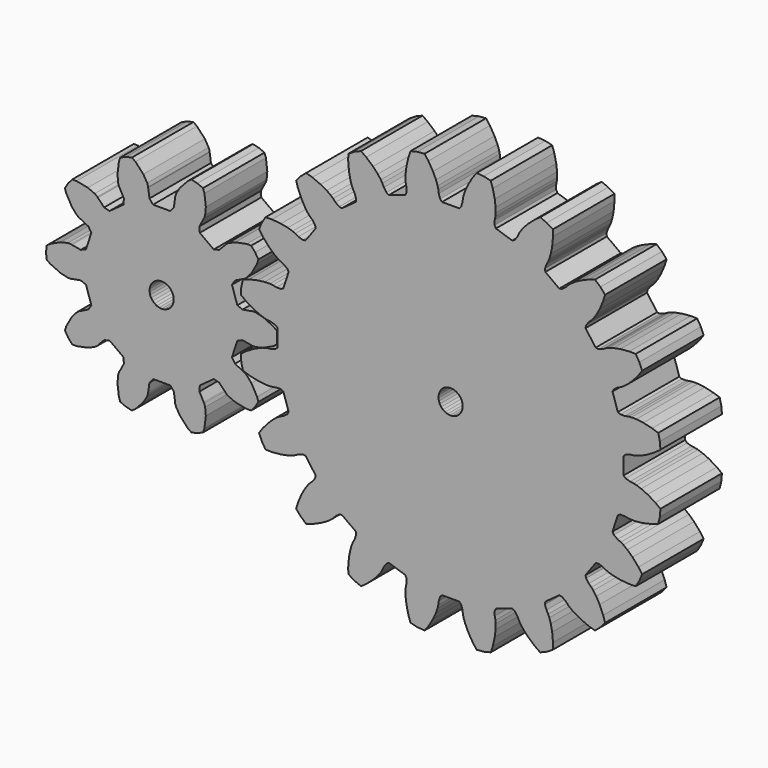
from build123d import *

# Parameters (mm, degrees)
F1_DEPTH = 12.7
F3_SCALE = 0.5319037547


with BuildPart() as f1:
    # F0 (on Front) → F1 (new body)
    with BuildSketch(Plane.XZ):
        Polygon((-17.590216, -12.006627), (-16.868057, -11.995513), (-16.210721, -11.225871), (-15.681876, -10.362875), (-15.894465, -9.672627), (-16.822012, -8.007404), (-17.639517, -7.070884), (-18.069689, -6.748116), (-18.203515, -6.717511), (-19.545831, -6.05378), (-20.03919, -5.270355), (-19.161075, -2.567796), (-18.301454, -2.223981), (-16.825366, -2.476005), (-16.699109, -2.529906), (-16.161375, -2.52163), (-14.949527, -2.244487), (-13.220332, -1.442492), (-12.642626, -1.009026), (-12.563214, 0), (-12.642626, 1.009026), (-13.220332, 1.442492), (-14.949527, 2.244487), (-16.161375, 2.52163), (-16.699109, 2.529906), (-16.825366, 2.476005), (-18.301454, 2.223981), (-19.161075, 2.567796), (-20.03919, 5.270355), (-19.545831, 6.05378), (-18.203515, 6.717511), (-18.069689, 6.748116), (-17.639517, 7.070884), (-16.822012, 8.007404), (-15.894465, 9.672627), (-15.681876, 10.362875), (-16.210721, 11.225871), (-16.868057, 11.995513), (-17.590216, 12.006627), (-19.460565, 11.63906), (-20.603871, 11.150967), (-21.043772, 10.84159), (-21.114234, 10.723772), (-22.160277, 9.652257), (-23.057815, 9.425137), (-25.356749, 11.09541), (-25.4181, 12.019203), (-24.722273, 13.345166), (-24.631996, 13.448587), (-24.473697, 13.96256), (-24.362795, 15.200738), (-24.591187, 17.09313), (-24.824916, 17.77651), (-25.760017, 18.163841), (-26.744197, 18.400122), (-27.334969, 17.984639), (-28.632062, 16.587907), (-29.270123, 15.521013), (-29.444163, 15.012155), (-29.431916, 14.875422), (-29.648362, 13.393699), (-30.240987, 12.682395), (-33.082627, 12.682395), (-33.675252, 13.393699), (-33.891698, 14.875422), (-33.879451, 15.012155), (-34.053491, 15.521013), (-34.691552, 16.587907), (-35.988645, 17.984639), (-36.579417, 18.400122), (-37.563597, 18.163841), (-38.498698, 17.77651), (-38.732427, 17.09313), (-38.960819, 15.200738), (-38.849917, 13.96256), (-38.691618, 13.448587), (-38.601341, 13.345166), (-37.905514, 12.019203), (-37.966865, 11.09541), (-40.265799, 9.425137), (-41.163337, 9.652257), (-42.20938, 10.723772), (-42.279842, 10.84159), (-42.719743, 11.150967), (-43.863049, 11.63906), (-45.733398, 12.006627), (-46.455557, 11.995513), (-47.112893, 11.225871), (-47.641738, 10.362875), (-47.429149, 9.672627), (-46.501602, 8.007404), (-45.684097, 7.070884), (-45.253925, 6.748116), (-45.120099, 6.717511), (-43.777783, 6.05378), (-43.284424, 5.270355), (-44.162539, 2.567796), (-45.02216, 2.223981), (-46.498248, 2.476005), (-46.624505, 2.529906), (-47.162239, 2.52163), (-48.374087, 2.244487), (-50.103282, 1.442492), (-50.680988, 1.009026), (-50.7604, 0), (-50.680988, -1.009026), (-50.103282, -1.442492), (-48.374087, -2.244487), (-47.162239, -2.52163), (-46.624505, -2.529906), (-46.498248, -2.476005), (-45.02216, -2.223981), (-44.162539, -2.567796), (-43.284424, -5.270355), (-43.777783, -6.05378), (-45.120099, -6.717511), (-45.253925, -6.748116), (-45.684097, -7.070884), (-46.501602, -8.007404), (-47.429149, -9.672627), (-47.641738, -10.362875), (-47.112893, -11.225871), (-46.455557, -11.995513), (-45.733398, -12.006627), (-43.863049, -11.63906), (-42.719743, -11.150967), (-42.279842, -10.84159), (-42.20938, -10.723772), (-41.163337, -9.652257), (-40.265799, -9.425137), (-37.966865, -11.09541), (-37.905514, -12.019203), (-38.601341, -13.345166), (-38.691618, -13.448587), (-38.849917, -13.96256), (-38.960819, -15.200738), (-38.732427, -17.09313), (-38.498698, -17.77651), (-37.563597, -18.163841), (-36.579417, -18.400122), (-35.988645, -17.984639), (-34.691552, -16.587907), (-34.053491, -15.521013), (-33.879451, -15.012155), (-33.891698, -14.875422), (-33.675252, -13.393699), (-33.082627, -12.682395), (-30.240987, -12.682395), (-29.648362, -13.393699), (-29.431916, -14.875422), (-29.444163, -15.012155), (-29.270123, -15.521013), (-28.632062, -16.587907), (-27.334969, -17.984639), (-26.744197, -18.400122), (-25.760017, -18.163841), (-24.824916, -17.77651), (-24.591187, -17.09313), (-24.362795, -15.200738), (-24.473697, -13.96256), (-24.631996, -13.448587), (-24.722273, -13.345166), (-25.4181, -12.019203), (-25.356749, -11.09541), (-23.057815, -9.425137), (-22.160277, -9.652257), (-21.114234, -10.723772), (-21.043772, -10.84159), (-20.603871, -11.150967), (-19.460565, -11.63906), align=None)
        Polygon((-30.848334, -1.827091), (-31.245984, -1.956295), (-31.661807, -2), (-32.07763, -1.956295), (-32.47528, -1.827091), (-32.837378, -1.618034), (-33.148097, -1.338261), (-33.393858, -1), (-33.56392, -0.618034), (-33.650851, -0.209057), (-33.650851, 0.209057), (-33.56392, 0.618034), (-33.393858, 1), (-33.148097, 1.338261), (-32.837378, 1.618034), (-32.47528, 1.827091), (-32.07763, 1.956295), (-31.661807, 2), (-31.245984, 1.956295), (-30.848334, 1.827091), (-30.486236, 1.618034), (-30.175517, 1.338261), (-29.929756, 1), (-29.759694, 0.618034), (-29.672763, 0.209057), (-29.672763, -0.209057), (-29.759694, -0.618034), (-29.929756, -1), (-30.175517, -1.338261), (-30.486236, -1.618034), align=None, mode=Mode.SUBTRACT)
    extrude(amount=F1_DEPTH)


with BuildPart() as f1b:
    # F0 (on Front) → F1, piece 2 (new body)
    with BuildSketch(Plane.XZ):
        Polygon((-17.22538, 6.967525), (-18.222457, 6.626504), (-18.49833, 5.47741), (-18.591049, 4.299307), (-17.748153, 3.666863), (-16.469137, 2.901942), (-15.417071, 2.413997), (-14.632558, 2.145678), (-14.146561, 2.034533), (-13.569764, 1.96492), (-12.853496, 1.738816), (-12.513214, 1.42082), (-12.513214, -1.42082), (-12.853496, -1.738816), (-13.569764, -1.96492), (-14.146561, -2.034533), (-14.632558, -2.145678), (-15.417071, -2.413997), (-16.469137, -2.901942), (-17.748153, -3.666863), (-18.591049, -4.299307), (-18.49833, -5.47741), (-18.222457, -6.626504), (-17.22538, -6.967525), (-15.772589, -7.29977), (-14.621231, -7.438727), (-13.792201, -7.451486), (-13.295644, -7.40701), (-12.725566, -7.294976), (-11.974485, -7.288675), (-11.552591, -7.485954), (-10.674476, -10.188514), (-10.899837, -10.596099), (-11.511179, -11.032476), (-12.038234, -11.276922), (-12.466099, -11.532809), (-13.129299, -12.030423), (-13.979091, -12.819592), (-14.959133, -13.942313), (-15.565339, -14.804272), (-15.113104, -15.896063), (-14.495644, -16.903667), (-13.441986, -16.919883), (-11.957631, -16.786931), (-10.819684, -16.563297), (-10.027287, -16.319247), (-9.568777, -16.123504), (-9.061221, -15.840789), (-8.348847, -15.602699), (-7.88664, -15.659951), (-6.216366, -17.958885), (-6.304747, -18.416162), (-6.751319, -19.020096), (-7.17704, -19.415447), (-7.504891, -19.791027), (-7.981861, -20.469227), (-8.546193, -21.482372), (-9.131329, -22.852993), (-9.441505, -23.860092), (-8.674023, -24.758699), (-7.775416, -25.526181), (-6.768317, -25.216005), (-5.397696, -24.630869), (-4.384551, -24.066536), (-3.706351, -23.589567), (-3.330771, -23.261716), (-2.93542, -22.835995), (-2.331486, -22.389423), (-1.874209, -22.301042), (0.424725, -23.971316), (0.481977, -24.433523), (0.243887, -25.145897), (-0.038828, -25.653453), (-0.234571, -26.111962), (-0.478621, -26.90436), (-0.702255, -28.042307), (-0.835207, -29.526662), (-0.818991, -30.58032), (0.188613, -31.19778), (1.280404, -31.650015), (2.142363, -31.043809), (3.265084, -30.063767), (4.054253, -29.213975), (4.551867, -28.550775), (4.807754, -28.12291), (5.0522, -27.595855), (5.488577, -26.984513), (5.896162, -26.759152), (8.598722, -27.637267), (8.796001, -28.05916), (8.7897, -28.810242), (8.677666, -29.38032), (8.63319, -29.876877), (8.645948, -30.705907), (8.784905, -31.857265), (9.117151, -33.310056), (9.458172, -34.307133), (10.607266, -34.583006), (11.785369, -34.675725), (12.417813, -33.832829), (13.182734, -32.553813), (13.670679, -31.501747), (13.938998, -30.717234), (14.050143, -30.231237), (14.119756, -29.65444), (14.34586, -28.938172), (14.663856, -28.59789), (17.505495, -28.59789), (17.823492, -28.938172), (18.049596, -29.65444), (18.119209, -30.231237), (18.230354, -30.717234), (18.498673, -31.501747), (18.986618, -32.553813), (19.751539, -33.832829), (20.383983, -34.675725), (21.562086, -34.583006), (22.71118, -34.307133), (23.052201, -33.310056), (23.384446, -31.857265), (23.523403, -30.705907), (23.536162, -29.876877), (23.491686, -29.38032), (23.379652, -28.810242), (23.373351, -28.05916), (23.57063, -27.637267), (26.27319, -26.759152), (26.680775, -26.984513), (27.117151, -27.595855), (27.361598, -28.12291), (27.617484, -28.550775), (28.115099, -29.213975), (28.904268, -30.063767), (30.026989, -31.043809), (30.888948, -31.650015), (31.980739, -31.19778), (32.988343, -30.58032), (33.004559, -29.526662), (32.871607, -28.042307), (32.647973, -26.90436), (32.403923, -26.111962), (32.208179, -25.653453), (31.925465, -25.145897), (31.687375, -24.433523), (31.744627, -23.971316), (34.043561, -22.301042), (34.500838, -22.389423), (35.104772, -22.835995), (35.500123, -23.261716), (35.875703, -23.589567), (36.553903, -24.066536), (37.567048, -24.630869), (38.937669, -25.216005), (39.944768, -25.526181), (40.843375, -24.758699), (41.610857, -23.860092), (41.300681, -22.852993), (40.715545, -21.482372), (40.151212, -20.469227), (39.674243, -19.791027), (39.346392, -19.415447), (38.920671, -19.020096), (38.474099, -18.416162), (38.385718, -17.958885), (40.055991, -15.659951), (40.518199, -15.602699), (41.230573, -15.840789), (41.738129, -16.123504), (42.196638, -16.319247), (42.989036, -16.563297), (44.126983, -16.786931), (45.611338, -16.919883), (46.664996, -16.903667), (47.282456, -15.896063), (47.734691, -14.804272), (47.128485, -13.942313), (46.148442, -12.819592), (45.298651, -12.030423), (44.635451, -11.532809), (44.207586, -11.276922), (43.680531, -11.032476), (43.069189, -10.596099), (42.843828, -10.188514), (43.721943, -7.485954), (44.143836, -7.288675), (44.894918, -7.294976), (45.464996, -7.40701), (45.961553, -7.451486), (46.790583, -7.438727), (47.941941, -7.29977), (49.394731, -6.967525), (50.391809, -6.626504), (50.667682, -5.47741), (50.760401, -4.299307), (49.917505, -3.666863), (48.638489, -2.901942), (47.586422, -2.413997), (46.80191, -2.145678), (46.315913, -2.034533), (45.739116, -1.96492), (45.022848, -1.738816), (44.682566, -1.42082), (44.682566, 1.42082), (45.022848, 1.738816), (45.739116, 1.96492), (46.315913, 2.034533), (46.80191, 2.145678), (47.586422, 2.413997), (48.638489, 2.901942), (49.917505, 3.666863), (50.760401, 4.299307), (50.667682, 5.47741), (50.391809, 6.626504), (49.394731, 6.967525), (47.941941, 7.29977), (46.790583, 7.438727), (45.961553, 7.451486), (45.464996, 7.40701), (44.894918, 7.294976), (44.143836, 7.288675), (43.721943, 7.485954), (42.843828, 10.188514), (43.069189, 10.596099), (43.680531, 11.032476), (44.207586, 11.276922), (44.635451, 11.532809), (45.298651, 12.030423), (46.148442, 12.819592), (47.128485, 13.942313), (47.734691, 14.804272), (47.282456, 15.896063), (46.664996, 16.903667), (45.611338, 16.919883), (44.126983, 16.786931), (42.989036, 16.563297), (42.196638, 16.319247), (41.738129, 16.123504), (41.230573, 15.840789), (40.518199, 15.602699), (40.055991, 15.659951), (38.385718, 17.958885), (38.474099, 18.416162), (38.920671, 19.020096), (39.346392, 19.415447), (39.674243, 19.791027), (40.151212, 20.469227), (40.715545, 21.482372), (41.300681, 22.852993), (41.610857, 23.860092), (40.843375, 24.758699), (39.944768, 25.526181), (38.937669, 25.216005), (37.567048, 24.630869), (36.553903, 24.066536), (35.875703, 23.589567), (35.500123, 23.261716), (35.104772, 22.835995), (34.500838, 22.389423), (34.043561, 22.301042), (31.744627, 23.971316), (31.687375, 24.433523), (31.925465, 25.145897), (32.208179, 25.653453), (32.403923, 26.111962), (32.647973, 26.90436), (32.871607, 28.042307), (33.004559, 29.526662), (32.988343, 30.58032), (31.980739, 31.19778), (30.888948, 31.650015), (30.026989, 31.043809), (28.904268, 30.063767), (28.115099, 29.213975), (27.617484, 28.550775), (27.361598, 28.12291), (27.117151, 27.595855), (26.680775, 26.984513), (26.27319, 26.759152), (23.57063, 27.637267), (23.373351, 28.05916), (23.379652, 28.810242), (23.491686, 29.38032), (23.536162, 29.876877), (23.523403, 30.705907), (23.384446, 31.857265), (23.052201, 33.310056), (22.71118, 34.307133), (21.562086, 34.583006), (20.383983, 34.675725), (19.751539, 33.832829), (18.986618, 32.553813), (18.498673, 31.501747), (18.230354, 30.717234), (18.119209, 30.231237), (18.049596, 29.65444), (17.823492, 28.938172), (17.505495, 28.59789), (14.663856, 28.59789), (14.34586, 28.938172), (14.119756, 29.65444), (14.050143, 30.231237), (13.938998, 30.717234), (13.670679, 31.501747), (13.182734, 32.553813), (12.417813, 33.832829), (11.785369, 34.675725), (10.607266, 34.583006), (9.458172, 34.307133), (9.117151, 33.310056), (8.784905, 31.857265), (8.645948, 30.705907), (8.63319, 29.876877), (8.677666, 29.38032), (8.7897, 28.810242), (8.796001, 28.05916), (8.598722, 27.637267), (5.896162, 26.759152), (5.488577, 26.984513), (5.0522, 27.595855), (4.807754, 28.12291), (4.551867, 28.550775), (4.054253, 29.213975), (3.265084, 30.063767), (2.142363, 31.043809), (1.280404, 31.650015), (0.188613, 31.19778), (-0.818991, 30.58032), (-0.835207, 29.526662), (-0.702255, 28.042307), (-0.478621, 26.90436), (-0.234571, 26.111962), (-0.038828, 25.653453), (0.243887, 25.145897), (0.481977, 24.433523), (0.424725, 23.971316), (-1.874209, 22.301042), (-2.331486, 22.389423), (-2.93542, 22.835995), (-3.330771, 23.261716), (-3.706351, 23.589567), (-4.384551, 24.066536), (-5.397696, 24.630869), (-6.768317, 25.216005), (-7.775416, 25.526181), (-8.674023, 24.758699), (-9.441505, 23.860092), (-9.131329, 22.852993), (-8.546193, 21.482372), (-7.981861, 20.469227), (-7.504891, 19.791027), (-7.17704, 19.415447), (-6.751319, 19.020096), (-6.304747, 18.416162), (-6.216366, 17.958885), (-7.88664, 15.659951), (-8.348847, 15.602699), (-9.061221, 15.840789), (-9.568777, 16.123504), (-10.027287, 16.319247), (-10.819684, 16.563297), (-11.957631, 16.786931), (-13.441986, 16.919883), (-14.495644, 16.903667), (-15.113104, 15.896063), (-15.565339, 14.804272), (-14.959133, 13.942313), (-13.979091, 12.819592), (-13.129299, 12.030423), (-12.466099, 11.532809), (-12.038234, 11.276922), (-11.511179, 11.032476), (-10.899837, 10.596099), (-10.674476, 10.188514), (-11.552591, 7.485954), (-11.974485, 7.288675), (-12.725566, 7.294976), (-13.295644, 7.40701), (-13.792201, 7.451486), (-14.621231, 7.438727), (-15.772589, 7.29977), align=None)
        Polygon((14.995398, 1.677341), (15.36794, 1.867161), (15.771807, 1.975377), (16.189348, 1.997259), (16.602314, 1.931852), (16.992657, 1.782013), (17.343317, 1.554292), (17.638968, 1.258641), (17.866689, 0.907981), (18.016528, 0.517638), (18.081935, 0.104672), (18.060053, -0.312869), (17.951837, -0.716736), (17.762017, -1.089278), (17.498889, -1.414214), (17.173954, -1.677341), (16.801412, -1.867161), (16.397545, -1.975377), (15.980004, -1.997259), (15.567038, -1.931852), (15.176695, -1.782013), (14.826035, -1.554292), (14.530384, -1.258641), (14.302663, -0.907981), (14.152824, -0.517638), (14.087417, -0.104672), (14.109299, 0.312869), (14.217515, 0.716736), (14.407335, 1.089278), (14.670462, 1.414214), align=None, mode=Mode.SUBTRACT)
    extrude(amount=F1_DEPTH)


with BuildPart() as f1_1:
    # F3: moved
    add(f1.part.scale(F3_SCALE).moved(Location((7.5291763403, -5.9448223153, 2.03e-08))))


with BuildPart() as f1b_1:
    # F3: moved
    add(f1b.part.scale(F3_SCALE).moved(Location((7.5291763403, -5.9448223153, 2.03e-08))))


solid = Compound([f1_1.part, f1b_1.part])
